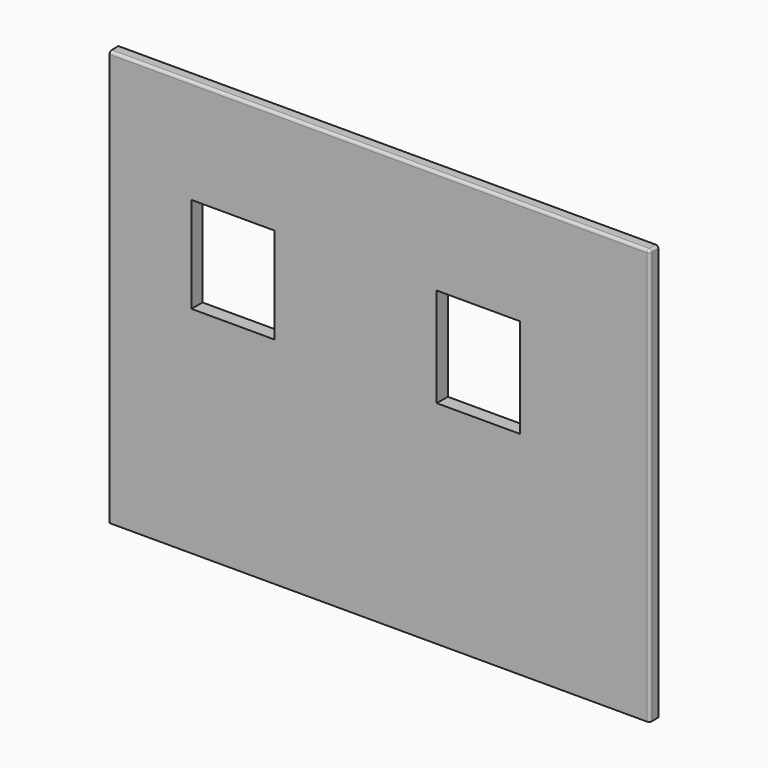
from build123d import *

# Parameters (mm, degrees)
F0_W     = 990.6
F0_H     = 762
F0_W_2   = 152.4
F0_H_2   = 175.9045571089
F0_H_3   = 181.9028109312
F1_DEPTH = 25.4
F2_R     = 5.08
F3_R     = 5.08
F4_SIZE  = 5.08


with BuildPart() as f1:
    # F0 (on Front) → F1 (new body)
    with BuildSketch(Plane.XZ):
        with Locations((0.8916221559, -189.7441043131)):
            Rectangle(F0_W, F0_H)
        with Locations((-267.8943658352, -87.9522785544)):
            Rectangle(F0_W_2, F0_H_2, mode=Mode.SUBTRACT)
        with Locations((181.9738661766, -90.9514054656)):
            Rectangle(F0_W_2, F0_H_3, mode=Mode.SUBTRACT)
    extrude(amount=F1_DEPTH)

    # F2
    f2_edges = [f1.edges().sort_by_distance(p)[0] for p in [
        (0.891622, -25.4, 191.255896),
    ]]
    fillet(f2_edges, radius=F2_R)

    # F3
    f3_edges = [f1.edges().sort_by_distance(p)[0] for p in [
        (0.891622, -25.4, 186.175896),
        (496.191622, -25.4, -192.284104),
    ]]
    fillet(f3_edges, radius=F3_R)

    # F4
    f4_edges = [f1.edges().sort_by_distance(p)[0] for p in [
        (496.191622, 0, -192.284104),
    ]]
    chamfer(f4_edges, length=F4_SIZE)


solid = f1.part
